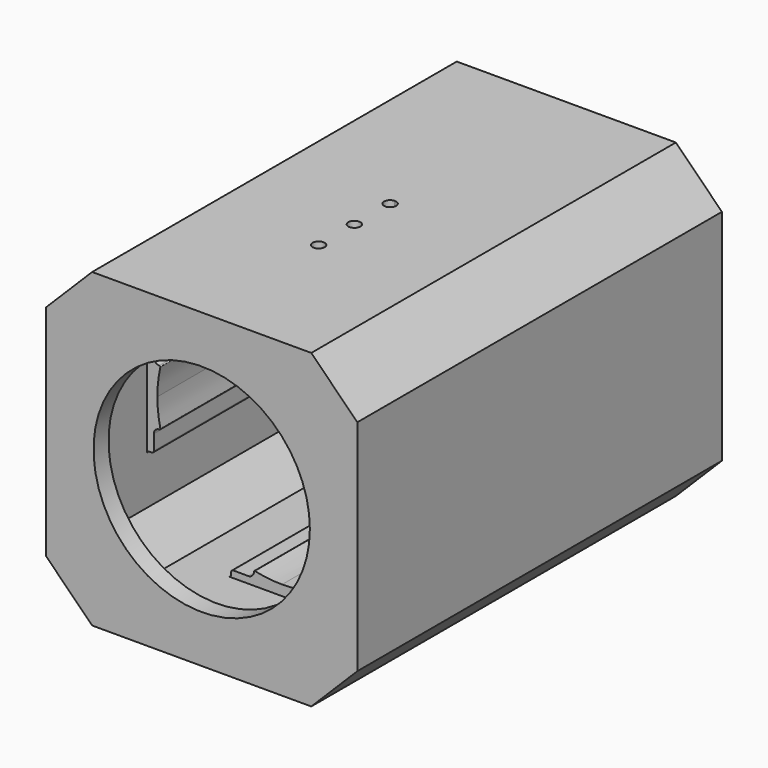
from build123d import *

# Parameters (mm, degrees)
F1_DEPTH      = 420
F3_DEPTH      = 190
F3_DEPTH_BACK = 800
F4_R          = 251.5
F5_DEPTH      = 43.6
F6_R          = 238.502835
F7_DEPTH      = 26.16
F8_R          = 14
F9_DEPTH      = 895.82711


with BuildPart() as f1:
    # F0 (on Front) → F1 (new body)
    with BuildSketch(Plane.XZ):
        Polygon((254.773682, 361.88), (-254.773682, 361.88), (-361.88, 254.773682), (-361.88, -254.773682), (-254.773682, -361.88), (254.773682, -361.88), (361.88, -254.773682), (361.88, 254.773682), align=None)
        with BuildLine():
            ThreePointArc((0, -289.94), (-31.67237, -288.2049), (-62.965664, -283.020368))
            ThreePointArc((-62.965664, -283.020368), (-64.651265, -283.412401), (-65.4, -284.972637))
            Line((-65.4, -284.972637), (-65.4, -285.173887))
            ThreePointArc((-65.4, -285.173887), (-69.207612, -294.366275), (-78.4, -298.173887))
            Line((-78.4, -298.173887), (-113.422553, -298.173887))
            ThreePointArc((-113.422553, -298.173887), (-116.958087, -299.638353), (-118.422553, -303.173887))
            Line((-118.422553, -303.173887), (-118.422553, -308.88))
            ThreePointArc((-118.422553, -308.88), (-119.887019, -312.415534), (-123.422553, -313.88))
            Line((-123.422553, -313.88), (-234.891431, -313.88))
            Line((-234.891431, -313.88), (-313.88, -234.891431))
            Line((-313.88, -234.891431), (-313.88, -123.422553))
            ThreePointArc((-313.88, -123.422553), (-312.415534, -119.887019), (-308.88, -118.422553))
            Line((-308.88, -118.422553), (-303.173887, -118.422553))
            ThreePointArc((-303.173887, -118.422553), (-299.638353, -116.958087), (-298.173887, -113.422553))
            Line((-298.173887, -113.422553), (-298.173887, -78.4))
            ThreePointArc((-298.173887, -78.4), (-294.366275, -69.207612), (-285.173887, -65.4))
            Line((-285.173887, -65.4), (-284.972637, -65.4))
            ThreePointArc((-284.972637, -65.4), (-283.412401, -64.651265), (-283.020368, -62.965664))
            ThreePointArc((-283.020368, -62.965664), (-288.2049, -31.67237), (-289.94, 0))
            ThreePointArc((-289.94, 0), (-288.2049, 31.67237), (-283.020368, 62.965664))
            ThreePointArc((-283.020368, 62.965664), (-283.5488, 64.667907), (-285.173887, 65.4))
            ThreePointArc((-285.173887, 65.4), (-294.366275, 69.207612), (-298.173887, 78.4))
            Line((-298.173887, 78.4), (-298.173887, 113.422553))
            ThreePointArc((-298.173887, 113.422553), (-299.638353, 116.958087), (-303.173887, 118.422553))
            Line((-303.173887, 118.422553), (-308.88, 118.422553))
            ThreePointArc((-308.88, 118.422553), (-312.415534, 119.887019), (-313.88, 123.422553))
            Line((-313.88, 123.422553), (-313.88, 234.891431))
            Line((-313.88, 234.891431), (-234.891431, 313.88))
            Line((-234.891431, 313.88), (-123.422553, 313.88))
            ThreePointArc((-123.422553, 313.88), (-119.887019, 312.415534), (-118.422553, 308.88))
            Line((-118.422553, 308.88), (-118.422553, 303.173887))
            ThreePointArc((-118.422553, 303.173887), (-116.958087, 299.638353), (-113.422553, 298.173887))
            Line((-113.422553, 298.173887), (-78.4, 298.173887))
            ThreePointArc((-78.4, 298.173887), (-69.207612, 294.366275), (-65.4, 285.173887))
            Line((-65.4, 285.173887), (-65.4, 284.972637))
            ThreePointArc((-65.4, 284.972637), (-64.651265, 283.412401), (-62.965664, 283.020368))
            ThreePointArc((-62.965664, 283.020368), (-31.67237, 288.2049), (0, 289.94))
            ThreePointArc((0, 289.94), (31.67237, 288.2049), (62.965664, 283.020368))
            ThreePointArc((62.965664, 283.020368), (64.731943, 283.476413), (65.4, 285.173887))
            ThreePointArc((65.4, 285.173887), (69.207612, 294.366275), (78.4, 298.173887))
            Line((78.4, 298.173887), (113.422553, 298.173887))
            ThreePointArc((113.422553, 298.173887), (116.958087, 299.638353), (118.422553, 303.173887))
            Line((118.422553, 303.173887), (118.422553, 308.88))
            ThreePointArc((118.422553, 308.88), (119.887019, 312.415534), (123.422553, 313.88))
            Line((123.422553, 313.88), (234.891431, 313.88))
            Line((234.891431, 313.88), (313.88, 234.891431))
            Line((313.88, 234.891431), (313.88, 123.422553))
            ThreePointArc((313.88, 123.422553), (312.415534, 119.887019), (308.88, 118.422553))
            Line((308.88, 118.422553), (303.173887, 118.422553))
            ThreePointArc((303.173887, 118.422553), (299.638353, 116.958087), (298.173887, 113.422553))
            Line((298.173887, 113.422553), (298.173887, 78.4))
            ThreePointArc((298.173887, 78.4), (294.366275, 69.207612), (285.173887, 65.4))
            Line((285.173887, 65.4), (284.972637, 65.4))
            ThreePointArc((284.972637, 65.4), (283.412401, 64.651265), (283.020368, 62.965664))
            ThreePointArc((283.020368, 62.965664), (288.2049, 31.67237), (289.94, 0))
            ThreePointArc((289.94, 0), (288.2049, -31.67237), (283.020368, -62.965664))
            ThreePointArc((283.020368, -62.965664), (283.5488, -64.667907), (285.173887, -65.4))
            ThreePointArc((285.173887, -65.4), (294.366275, -69.207612), (298.173887, -78.4))
            Line((298.173887, -78.4), (298.173887, -113.422553))
            ThreePointArc((298.173887, -113.422553), (299.638353, -116.958087), (303.173887, -118.422553))
            Line((303.173887, -118.422553), (308.88, -118.422553))
            ThreePointArc((308.88, -118.422553), (312.415534, -119.887019), (313.88, -123.422553))
            Line((313.88, -123.422553), (313.88, -234.891431))
            Line((313.88, -234.891431), (234.891431, -313.88))
            Line((234.891431, -313.88), (123.422553, -313.88))
            ThreePointArc((123.422553, -313.88), (119.887019, -312.415534), (118.422553, -308.88))
            Line((118.422553, -308.88), (118.422553, -303.173887))
            ThreePointArc((118.422553, -303.173887), (116.958087, -299.638353), (113.422553, -298.173887))
            Line((113.422553, -298.173887), (78.4, -298.173887))
            ThreePointArc((78.4, -298.173887), (69.207612, -294.366275), (65.4, -285.173887))
            Line((65.4, -285.173887), (65.4, -284.972637))
            ThreePointArc((65.4, -284.972637), (64.651265, -283.412401), (62.965664, -283.020368))
            ThreePointArc((62.965664, -283.020368), (31.67237, -288.2049), (0, -289.94))
        make_face(mode=Mode.SUBTRACT)
    extrude(amount=-F1_DEPTH)


with BuildPart() as f3:
    # F2 (on face) → F3 (new body, two sides)
    with BuildSketch(Plane.XZ) as f3_sk:
        Polygon((-254.773682, 361.88), (-361.88, 254.773682), (-361.88, -254.773682), (-254.773682, -361.88), (254.773682, -361.88), (361.88, -254.773682), (361.88, 254.773682), (254.773682, 361.88), align=None)
        Polygon((-313.88, 123.422553), (-313.88, 234.891431), (-234.891431, 313.88), (-123.422553, 313.88), (123.422553, 313.88), (234.891431, 313.88), (313.88, 234.891431), (313.88, 123.422553), (313.88, -123.422553), (313.88, -234.891431), (234.891431, -313.88), (123.422553, -313.88), (-123.422553, -313.88), (-234.891431, -313.88), (-313.88, -234.891431), (-313.88, -123.422553), align=None, mode=Mode.SUBTRACT)
    extrude(amount=F3_DEPTH)
    extrude(f3_sk.sketch, amount=-F3_DEPTH_BACK)

    # F4 (on face) → F5 (join)
    with BuildSketch(Plane.XZ.offset(190)):
        Polygon((-254.773682, 361.88), (-361.88, 254.773682), (-361.88, -254.773682), (-254.773682, -361.88), (254.773682, -361.88), (361.88, -254.773682), (361.88, 254.773682), (254.773682, 361.88), align=None)
        Circle(F4_R, mode=Mode.SUBTRACT)
    extrude(amount=F5_DEPTH)

    # F6 (on face) → F7 (join)
    with BuildSketch(Plane(origin=(0, 800, 0), x_dir=(-1, 0, 0), z_dir=(0, 1, 0))):
        Polygon((-254.773682, 361.88), (-361.88, 254.773682), (-361.88, -254.773682), (-254.773682, -361.88), (254.773682, -361.88), (361.88, -254.773682), (361.88, 254.773682), (254.773682, 361.88), align=None)
        Circle(F6_R, mode=Mode.SUBTRACT)
    extrude(amount=F7_DEPTH)


with BuildPart() as f9_tool:
    # F8 (on face) → F9 (new body)
    with BuildSketch(Plane.XY.offset(361.88)):
        with Locations((0, 106.212281)):
            Circle(F8_R)
        with Locations((0, 210.148975)):
            Circle(F8_R)
        with Locations((0, 314.08567)):
            Circle(F8_R)
    extrude(amount=-F9_DEPTH)


with BuildPart() as f1_1:
    add(f1.part)

    # F9: cut by f9_tool
    add(f9_tool.part, mode=Mode.SUBTRACT)


with BuildPart() as f3_1:
    add(f3.part)

    # F9: cut by f9_tool
    add(f9_tool.part, mode=Mode.SUBTRACT)


solid = Compound([f1_1.part, f3_1.part])
